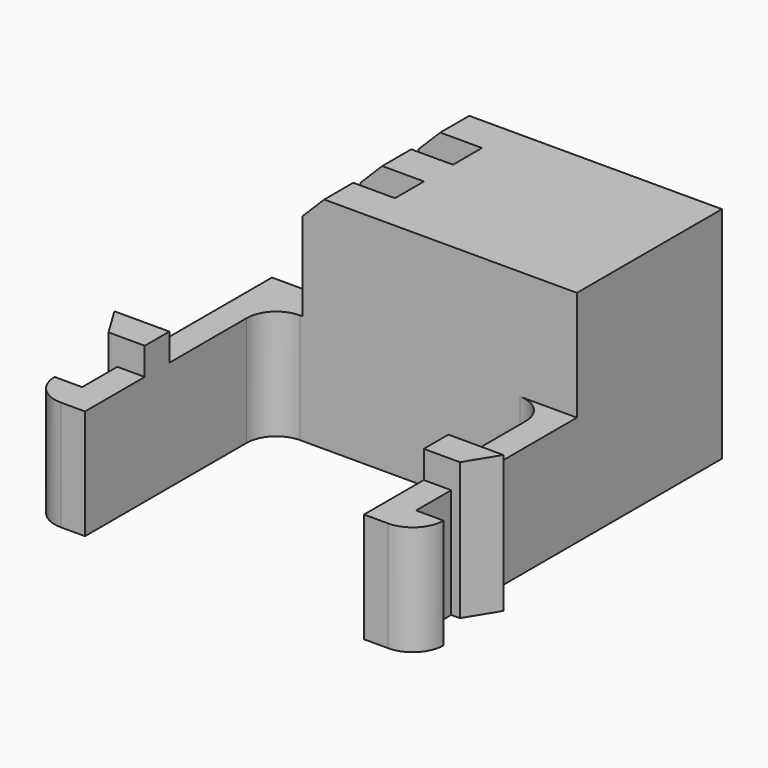
from build123d import *

# Parameters (mm, degrees)
PAD017_DEPTH           = 5
PAD020_DEPTH           = 6.25
SKETCH038_W            = 10
SKETCH038_H            = 1.65
PAD021_DEPTH           = 5
SKETCH078_W            = 12.5
SKETCH078_H            = 1.65
PAD047_DEPTH           = 10
SKETCH076_W            = 9.6
SKETCH076_H            = 1.65
PAD048_DEPTH           = 10
SKETCH075_W            = 12.5
SKETCH075_H            = 1.65
PAD049_DEPTH           = 7.1
SKETCH077_W            = 12.5
SKETCH077_H            = 1.65
PAD050_DEPTH           = 10
LINEARPATTERN017_COUNT = 2
LINEARPATTERN017_PITCH = 3.3
CHAMFER007_SIZE        = 1


with BuildPart() as obj1:
    # Sketch034 → Pad017 (new body)
    with BuildSketch(Plane.XY):
        with BuildLine():
            Line((-1.35, -1.8), (-1.35, 6))
            ThreePointArc((0, 7.35), (-0.954594, 6.954594), (-1.35, 6))
            Line((0, 9), (0, 7.35))
            Line((-2.6, 9), (0, 9))
            Line((-2.6, -1.8), (-2.6, 9))
            Line((-3.85, -1.8), (-2.6, -1.8))
            ThreePointArc((-3.85, -1.8), (-3.439949, -2.789949), (-2.45, -3.2))
            Line((-1.35, -3.2), (-2.45, -3.2))
            Line((-1.35, -1.8), (-1.35, -3.2))
        make_face()
    extrude(amount=PAD017_DEPTH)

    # Sketch037 → Pad020 (join)
    with BuildSketch(Plane.XY):
        Polygon((-1.35, 0.2), (-1.35, 1.6), (-2.6, 1.6), (-3.85, 1.6), (-3, 0.2), (-2.6, 0.2), align=None)
    extrude(amount=PAD020_DEPTH)


with BuildPart() as body032:
    # Mirror002: instance of _obj1
    add(obj1.part.mirror(Plane(origin=(5, 0, 0), x_dir=(0, 1, 0), z_dir=(-1, 0, 0))))

    # Fusion002: union _obj1
    add(obj1.part)


with BuildPart() as body032_1:
    # Clone003 placement: moved
    add(body032.part.moved(Location((-5, 0, 0))))

    # Sketch038 → Pad021 (new body)
    with BuildSketch(Plane.XY):
        with Locations((0, 8.175)):
            Rectangle(SKETCH038_W, SKETCH038_H)
    extrude(amount=PAD021_DEPTH)

    # Sketch078 → Pad047 (new body)
    with BuildSketch(Plane.XY):
        with Locations((1.35, 8.175)):
            Rectangle(SKETCH078_W, SKETCH078_H)
    extrude(amount=PAD047_DEPTH)

    # Sketch076 → Pad048 (join)
    with BuildSketch(Plane.XY):
        with Locations((2.8, 9.825)):
            Rectangle(SKETCH076_W, SKETCH076_H)
    pad048 = extrude(amount=PAD048_DEPTH)

    # Sketch075 → Pad049 (join)
    with BuildSketch(Plane.XY):
        with Locations((1.35, 9.825)):
            Rectangle(SKETCH075_W, SKETCH075_H)
    pad049 = extrude(amount=PAD049_DEPTH)

    # Sketch077 → Pad050 (join)
    with BuildSketch(Plane.XY):
        with Locations((1.35, 11.475)):
            Rectangle(SKETCH077_W, SKETCH077_H)
    pad050 = extrude(amount=PAD050_DEPTH)

    # LinearPattern017: Pad050, Pad049, Pad048 ×2
    with Locations(*[(0, i * LINEARPATTERN017_PITCH, 0) for i in range(1, LINEARPATTERN017_COUNT)]):
        add(pad050)
        add(pad049)
        add(pad048)

    # Chamfer007
    chamfer007_edges = [body032_1.edges().sort_by_distance(p)[0] for p in [
        (-4.9, 8.175, 10),
        (-4.9, 11.475, 10),
        (-4.9, 14.775, 10),
    ]]
    chamfer(chamfer007_edges, length=CHAMFER007_SIZE)


with BuildPart() as body032_2:
    # Body032 placement: moved
    add(body032_1.part.moved(Location((-5, 0, 0))))


solid = body032_2.part
